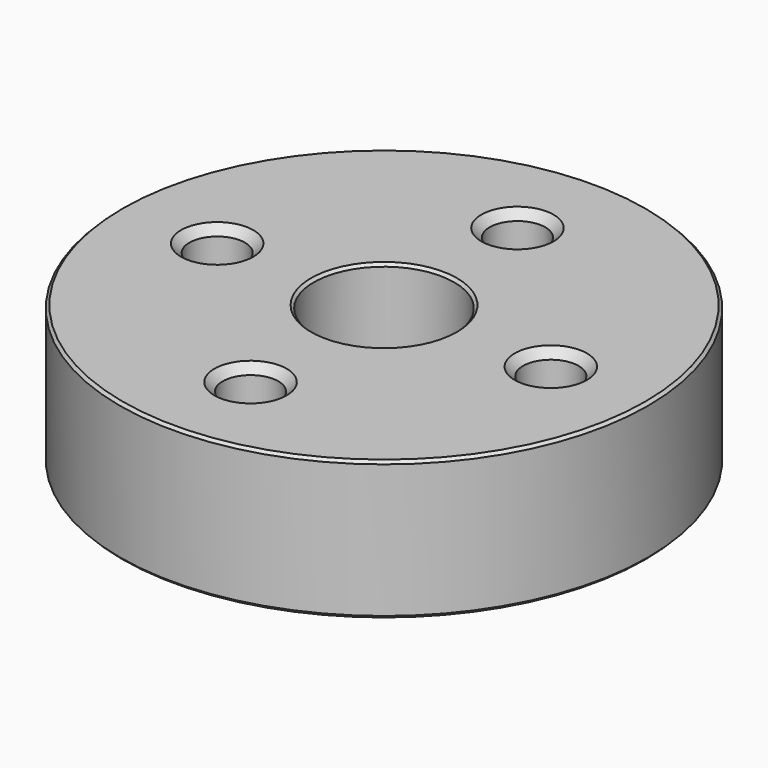
from build123d import *

# Parameters (mm, degrees)
F0_R     = 9.5
F0_R_2   = 2.525
F1_DEPTH = 5
F2_SIZE  = 0.1
F3_R     = 1
F4_DEPTH = 5.001
F5_SIZE  = 0.3


with BuildPart() as f1:
    # F0 (on Top) → F1 (new body)
    with BuildSketch(Plane.XY):
        Circle(F0_R)
        Circle(F0_R_2, mode=Mode.SUBTRACT)
    extrude(amount=F1_DEPTH)

    # F2
    f2_edges = [f1.edges().sort_by_distance(p)[0] for p in [
        (-9.5, 0, 5),
        (-9.5, 0, 0),
        (-2.525, 0, 5),
        (-2.525, 0, 0),
    ]]
    chamfer(f2_edges, length=F2_SIZE)

    # F3 (on face) → F4 (cut, through all)
    with BuildSketch(Plane.XY.offset(5)):
        with Locations((0, 6)):
            Circle(F3_R)
        with Locations((-6, 0)):
            Circle(F3_R)
        with Locations((0, -6)):
            Circle(F3_R)
        with Locations((6, 0)):
            Circle(F3_R)
    extrude(amount=-F4_DEPTH, mode=Mode.SUBTRACT)

    # F5
    f5_edges = [f1.edges().sort_by_distance(p)[0] for p in [
        (-1, 6, 5),
        (5, 0, 5),
        (-1, -6, 5),
        (-7, 0, 5),
        (-7, 0, 0),
        (-1, 6, 0),
        (5, 0, 0),
        (-1, -6, 0),
    ]]
    chamfer(f5_edges, length=F5_SIZE)


solid = f1.part
